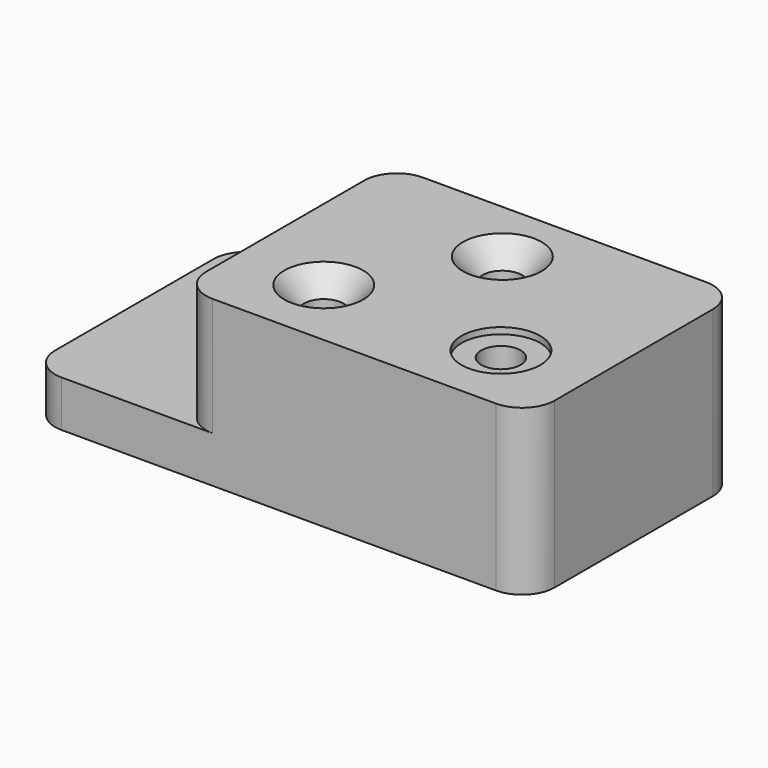
from build123d import *

# Parameters (mm, degrees)
F1_DEPTH             = 127
F4_D                 = 19.05
F4_CBORE_D           = 38.1
F4_CBORE_DEPTH       = 3.048
F4_ON_F2_D           = 19.05
F4_ON_F2_CBORE_D     = 38.1
F4_ON_F2_CBORE_DEPTH = 3.048
F5_D                 = 19.05
F5_CSINK_D           = 38.1
F5_CSINK_ANGLE       = 82
F6_R                 = 15.748


with BuildPart() as f1:
    # F0 (on Front) → F1 (new body)
    with BuildSketch(Plane.XZ):
        Polygon((0, 22.352), (0, 0), (241.3, 0), (241.3, 79.502), (72.898, 79.502), (72.898, 22.352), align=None)
    extrude(amount=F1_DEPTH)

    # F4 (through all)
    with Locations(Plane.XY.offset(22.352)):
        with Locations((35.052, -31.75)):
            CounterBoreHole(F4_D / 2, F4_CBORE_D / 2, F4_CBORE_DEPTH)

    # F4 on F2 (through all)
    with Locations(Plane.XY.offset(79.502)):
        with Locations((199.898, -91.948)):
            CounterBoreHole(F4_ON_F2_D / 2, F4_ON_F2_CBORE_D / 2, F4_ON_F2_CBORE_DEPTH)

    # F5 (through all)
    with Locations(Plane.XY.offset(79.502)):
        with Locations((114.3, -91.948), (152.4, -31.75)):
            CounterSinkHole(F5_D / 2, F5_CSINK_D / 2, counter_sink_angle=F5_CSINK_ANGLE)

    # F6
    f6_edges = [f1.edges().sort_by_distance(p)[0] for p in [
        (0, 0, 11.176),
        (72.898, 0, 50.927),
        (72.898, -127, 50.927),
        (0, -127, 11.176),
        (241.3, -127, 39.751),
        (241.3, 0, 39.751),
    ]]
    fillet(f6_edges, radius=F6_R)


solid = f1.part
